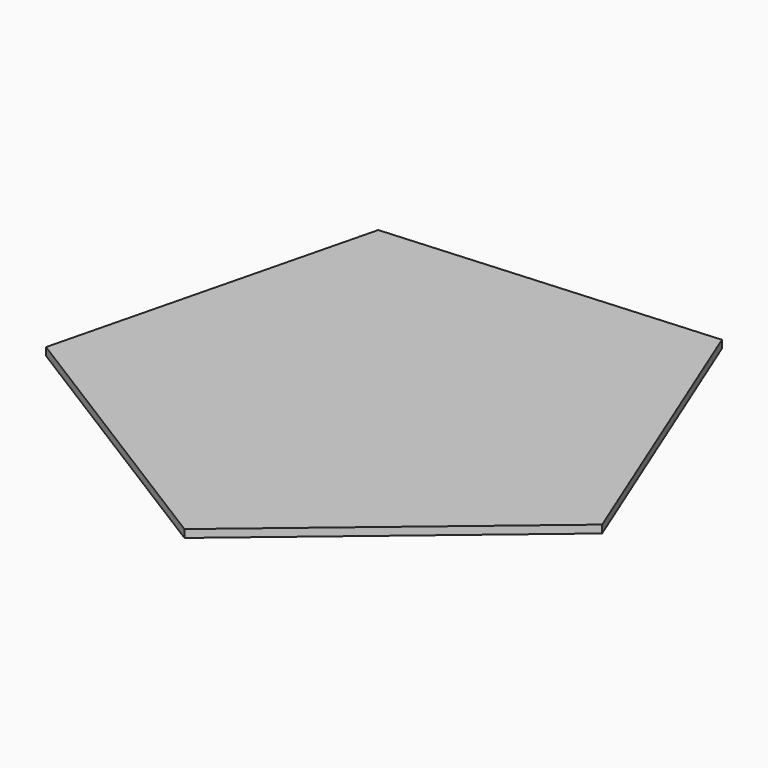
from build123d import *

# Parameters (mm, degrees)
F1_DEPTH = 1


with BuildPart() as f1:
    # F0 (on Top) → F1 (new body)
    with BuildSketch(Plane.XY):
        Polygon((19.1758844015, 25.326287722), (-22.4985656812, 22.4124055891), (-32.6054123978, -18.1227908238), (2.822662895, -40.2610378147), (34.8252642985, -13.4080304936), align=None)
        Polygon((-31.7215240873, -17.8355981024), (-21.9522926631, 21.6605252833), (18.6296113834, 24.5744074162), (33.941375988, -13.1208377722), (2.822662895, -39.3316626458), align=None, mode=Mode.SUBTRACT)
        Polygon((18.6296113834, 24.5744074162), (-21.9522926631, 21.6605252833), (-31.7215240873, -17.8355981024), (2.822662895, -39.3316626458), (33.941375988, -13.1208377722), align=None)
    extrude(amount=F1_DEPTH)


solid = f1.part
